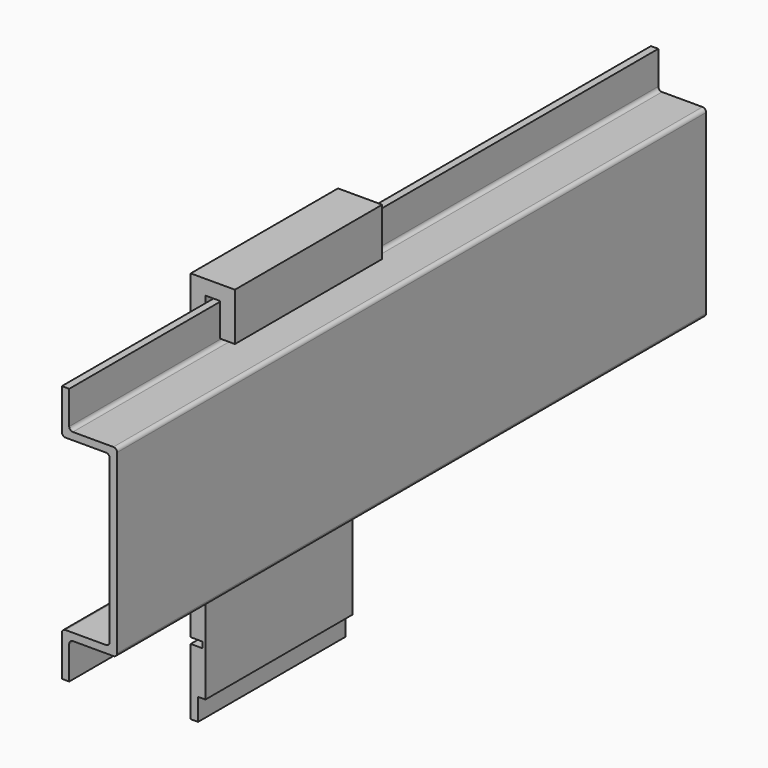
from build123d import *

# Parameters (mm, degrees)
F1_DEPTH      = 50
F1_DEPTH_BACK = 50
F3_DEPTH      = 25


with BuildPart() as f1:
    # F0 (on Front) → F1 (new body, two sides)
    with BuildSketch(Plane.XZ) as f1_sk:
        with BuildLine():
            Line((0, 13), (0, 17.5))
            Line((0, 17.5), (-1, 17.5))
            Line((-1, 17.5), (-1, 12))
            ThreePointArc((-1, 12), (-0.853553, 11.646447), (-0.5, 11.5))
            Line((-0.5, 11.5), (5, 11.5))
            ThreePointArc((5, 11.5), (5.353553, 11.353553), (5.5, 11))
            Line((5.5, 11), (5.5, -11))
            ThreePointArc((5.5, -11), (5.353553, -11.353553), (5, -11.5))
            Line((5, -11.5), (-0.5, -11.5))
            ThreePointArc((-0.5, -11.5), (-0.853553, -11.646447), (-1, -12))
            Line((-1, -12), (-1, -17.5))
            Line((-1, -17.5), (0, -17.5))
            Line((0, -17.5), (0, -13))
            ThreePointArc((0, -13), (0.146447, -12.646447), (0.5, -12.5))
            Line((0.5, -12.5), (6, -12.5))
            ThreePointArc((6, -12.5), (6.353553, -12.353553), (6.5, -12))
            Line((6.5, -12), (6.5, 12))
            ThreePointArc((6.5, 12), (6.353553, 12.353553), (6, 12.5))
            Line((6, 12.5), (0.5, 12.5))
            ThreePointArc((0.5, 12.5), (0.146447, 12.646447), (0, 13))
        make_face()
    extrude(amount=F1_DEPTH)
    extrude(f1_sk.sketch, amount=-F1_DEPTH_BACK)


with BuildPart() as f3:
    # F2 (on Front) → F3 (new body)
    with BuildSketch(Plane.XZ):
        Polygon((0.5, 18), (0.5, 15.027218), (0.5, 13.5), (2.5, 13.5), (2.5, 20), (-3.5, 20), (-3.5, -23.5), (-1.9, -23.5), (-1.9, -24.3), (-3.5, -24.3), (-3.5, -30.3), (-3.5, -33.3), (-2.5, -33.3), (-2.5, -30.3), (-1.5, -30.3), (-1.5, -24.3), (-1.5, -23.5), (-1.5, 18), align=None)
    extrude(amount=F3_DEPTH)


solid = Compound([f1.part, f3.part])
